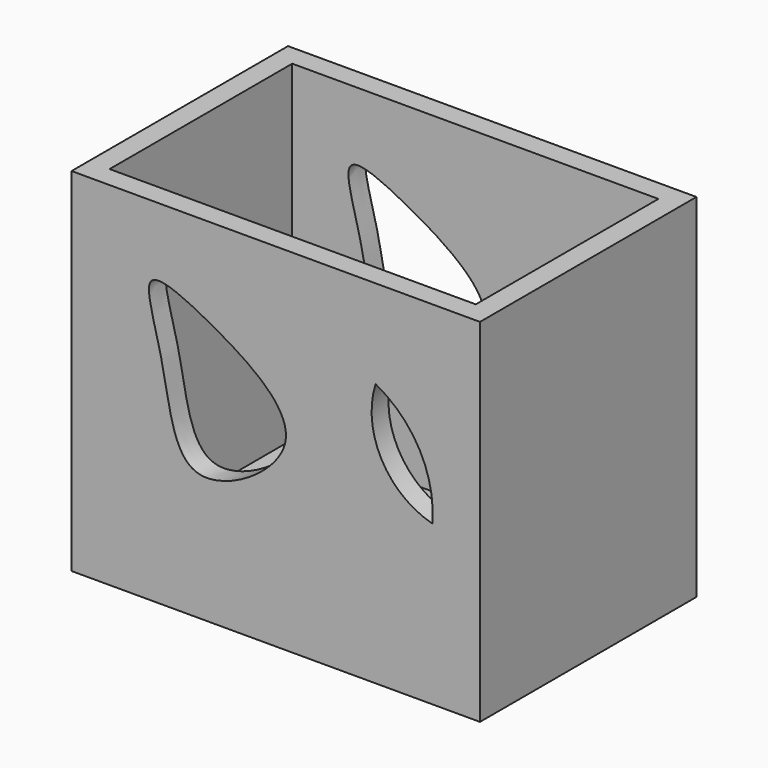
from build123d import *

# Parameters (mm, degrees)
F0_W     = 57.9878091812
F0_H     = 38.4146366268
F1_DEPTH = 50
F2_T     = -3
F4_DEPTH = 38.4156366268


with BuildPart() as f1:
    # F0 (on Top) → F1 (new body)
    with BuildSketch(Plane.XY):
        with Locations((-7.042683661, 1.5548774973)):
            Rectangle(F0_W, F0_H)
    extrude(amount=F1_DEPTH)

    # F2
    f2_openings = [f1.faces().sort_by_distance(p)[0] for p in [
        (-7.042684, 1.554877, 50),
    ]]
    offset(amount=F2_T, openings=f2_openings)

    # F3 (on face) → F4 (cut, through all)
    with BuildSketch(Plane.XZ.offset(17.6524408162)):
        with BuildLine():
            add(Edge.make_bspline(
                [(-16.4634156972, 37.4085381627), (-11.1890363739, 34.5487939189), (1.3150993888, 26.6227449202), (-21.2683478099, 12.525752902), (-22.3954826963, 30.3245935739), (-27.2033055371, 42.5719243048), (-20.3772871456, 39.5306212856), (-16.4634156972, 37.4085381627)],
                knots=[0, 0, 0, 0, 0.2260787274, 0.4448680265, 0.65498218, 0.8322374972, 1, 1, 1, 1], degree=3))
        make_face()
        with BuildLine():
            ThreePointArc((15.1829272509, 22.5914642215), (13.3867242374, 31.2103747375), (7.1341460571, 37.4085381627))
            ThreePointArc((7.1341460571, 37.4085381627), (7.9688071733, 28.2673085728), (15.1829272509, 22.5914642215))
        make_face()
    extrude(amount=-F4_DEPTH, mode=Mode.SUBTRACT)


solid = f1.part
